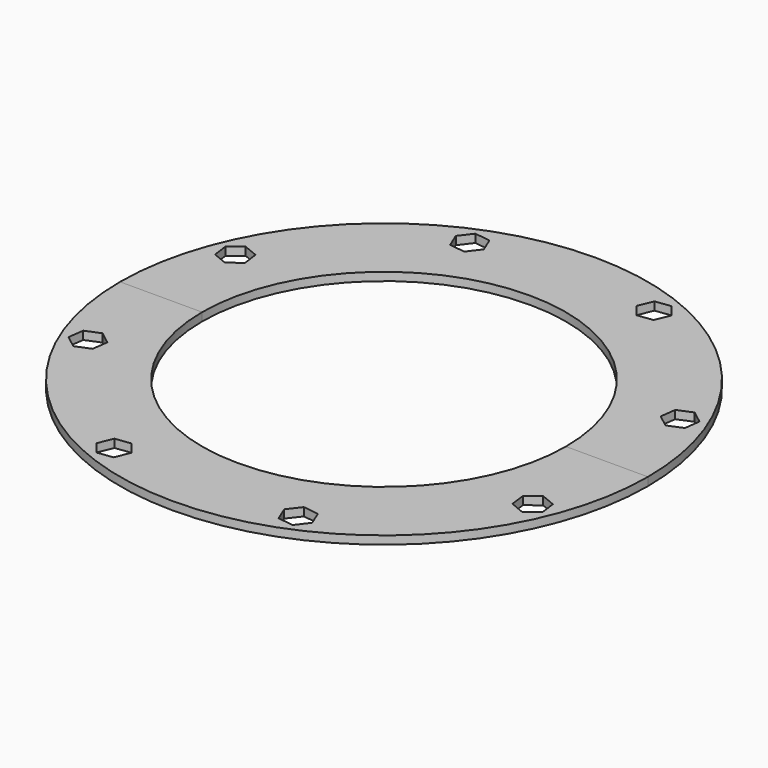
from build123d import *

# Parameters (mm, degrees)
F1_DEPTH = 3
F3_DEPTH = 3


with BuildPart() as f1:
    # F0 (on Top) → F1 (new body)
    with BuildSketch(Plane.XY):
        with BuildLine():
            ThreePointArc((96.5, 0), (0, 96.5), (-96.5, 0))
            Line((-96.5, 0), (-66.5, 0))
            ThreePointArc((-66.5, 0), (0, 66.5), (66.5, 0))
            Line((66.5, 0), (96.5, 0))
        make_face()
    extrude(amount=F1_DEPTH)

    # F2 (on Top) → F3 (cut)
    with BuildSketch(Plane.XY):
        Polygon((-76.727109, 37.198812), (-82.064975, 39.398928), (-86.639266, 35.876258), (-85.875689, 30.153472), (-80.537822, 27.953356), (-75.963532, 31.476026), align=None)
        Polygon((-31.457418, 75.97124), (-27.950727, 80.557791), (-30.169451, 85.88795), (-35.894867, 86.631558), (-39.401557, 82.045007), (-37.182833, 76.714848), align=None)
        Polygon((31.476026, 75.963532), (37.198812, 76.727109), (39.398928, 82.064975), (35.876258, 86.639266), (30.153472, 85.875689), (27.953356, 80.537822), align=None)
        Polygon((80.557791, 27.950727), (85.88795, 30.169451), (86.631558, 35.894867), (82.045007, 39.401557), (76.714848, 37.182833), (75.97124, 31.457418), align=None)
    extrude(amount=F3_DEPTH, mode=Mode.SUBTRACT)


with BuildPart() as f5_1:
    # F5: instance of F1
    add(f1.part.mirror(Plane.XZ))


solid = Compound([f1.part, f5_1.part])
